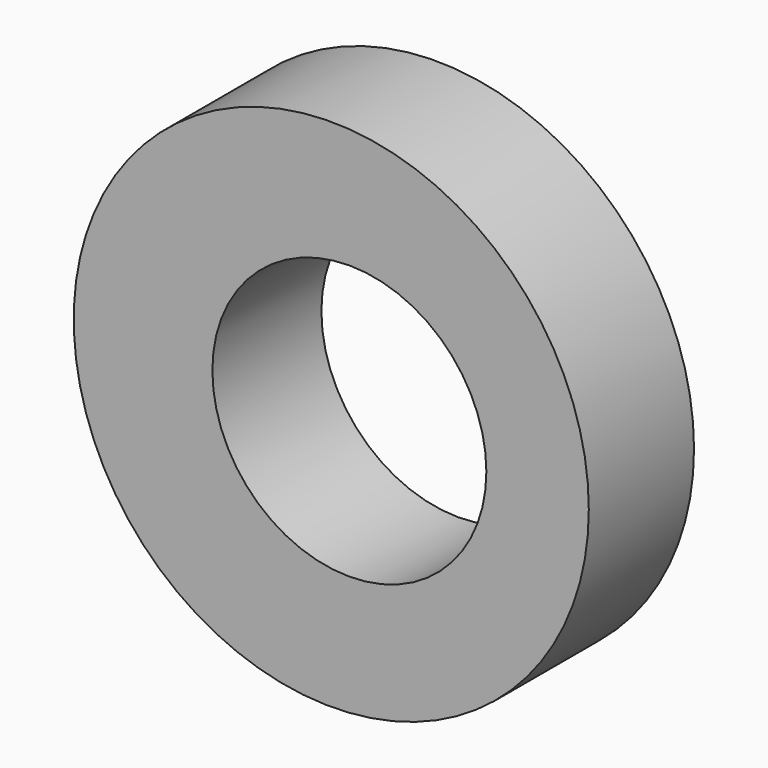
from build123d import *

# Parameters (mm, degrees)
F0_R     = 23.5
F0_R_2   = 12.5
F4_DEPTH = 12
F3_R     = 12.5


with BuildPart() as f4:
    # F0 (on Front) → F4 (new body, through all)
    with BuildSketch(Plane.XZ):
        Circle(F0_R)
        with Locations((2, 0)):
            Circle(F0_R_2, mode=Mode.SUBTRACT)
        with Locations((2, 0)):
            Circle(F0_R_2)
    extrude(amount=F4_DEPTH)

    # F0 (on Front) → F5 section 0
    with BuildSketch(Plane.XZ):
        with Locations((2, 0)):
            Circle(F0_R_2)
    # F3 (on offset) → F5 section 1
    with BuildSketch(Plane.XZ.offset(12)):
        with Locations((1.651125, 0)):
            Circle(F3_R)
    loft(mode=Mode.SUBTRACT)


solid = f4.part
